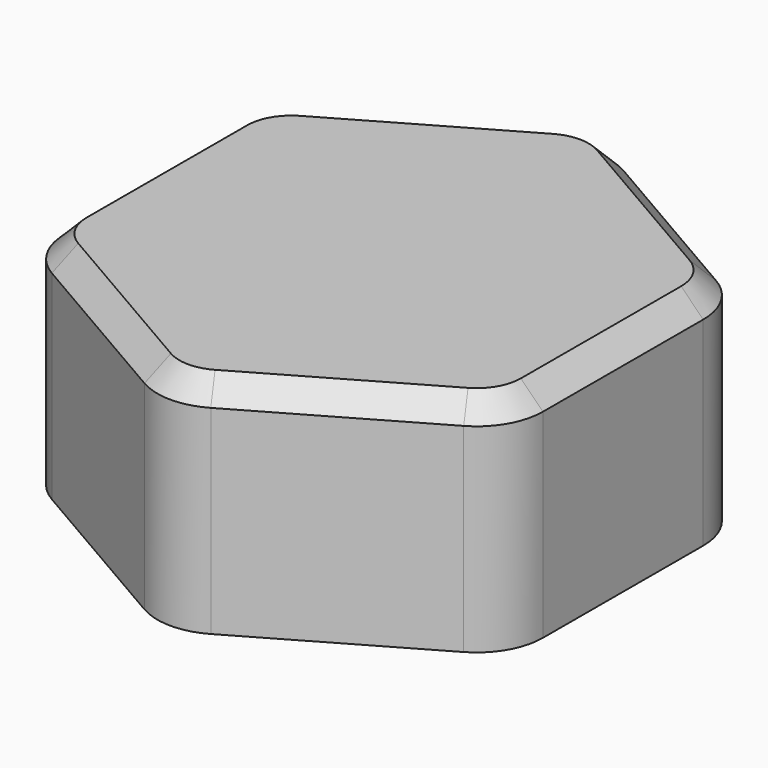
from build123d import *

# Parameters (mm, degrees)
PAD001_DEPTH    = 10
FILLET001_R     = 3
CHAMFER001_SIZE = 1
POCKET_DEPTH    = 8
FILLET002_R     = 2
CHAMFER002_SIZE = 1


with BuildPart() as part:
    # Sketch001 → Pad001 (new body)
    with BuildSketch(Plane.XY):
        Polygon((0.024307, 12.5), (-10.813164, 6.27105), (-10.837471, -6.22895), (-0.024307, -12.5), (10.813164, -6.27105), (10.837471, 6.22895), align=None)
    extrude(amount=PAD001_DEPTH)

    # Fillet001
    fillet001_edges = [part.edges().sort_by_distance(p)[0] for p in [
        (-10.837471, -6.22895, 5),
        (-10.813164, 6.27105, 5),
        (-0.024307, -12.5, 5),
        (10.813164, -6.27105, 5),
        (0.024307, 12.5, 5),
        (10.837471, 6.22895, 5),
    ]]
    fillet(fillet001_edges, radius=FILLET001_R)

    # Chamfer001
    chamfer001_edges = [part.edges().sort_by_distance(p)[0] for p in [
        (-5.394429, 9.385525, 10),
        (0.023405, 12.035899, 10),
        (-10.411692, 6.038219, 10),
        (5.430889, 9.364475, 10),
        (-10.825318, 0.02105, 10),
        (10.435097, 5.997681, 10),
        (-10.435097, -5.997681, 10),
        (10.825318, -0.02105, 10),
        (-5.430889, -9.364475, 10),
        (10.411692, -6.038219, 10),
        (-0.023405, -12.035899, 10),
        (5.394429, -9.385525, 10),
    ]]
    chamfer(chamfer001_edges, length=CHAMFER001_SIZE)

    # Sketch002 (on Face4 of Chamfer001) → Pocket (cut)
    with BuildSketch(Plane(origin=(0, 0, 0), x_dir=(1, 0, 0), z_dir=(0, 0, -1))):
        Polygon((0, 11), (-9.526279, 5.5), (-9.526279, -5.5), (0, -11), (9.526279, -5.5), (9.526279, 5.5), align=None)
    extrude(amount=-POCKET_DEPTH, mode=Mode.SUBTRACT)

    # Fillet002
    fillet002_edges = [part.edges().sort_by_distance(p)[0] for p in [
        (0, -11, 4),
        (9.526279, -5.5, 4),
        (9.526279, 5.5, 4),
        (0, 11, 4),
        (-9.526279, 5.5, 4),
        (-9.526279, -5.5, 4),
    ]]
    fillet(fillet002_edges, radius=FILLET002_R)

    # Chamfer002
    chamfer002_edges = [part.edges().sort_by_distance(p)[0] for p in [
        (-4.76314, -8.25, 8),
        (0, -10.690599, 8),
        (-9.25833, -5.345299, 8),
        (4.76314, -8.25, 8),
        (-9.526279, 0, 8),
        (9.25833, -5.345299, 8),
        (-9.25833, 5.345299, 8),
        (9.526279, 0, 8),
        (-4.76314, 8.25, 8),
        (9.25833, 5.345299, 8),
        (0, 10.690599, 8),
        (4.76314, 8.25, 8),
    ]]
    chamfer(chamfer002_edges, length=CHAMFER002_SIZE)


with BuildPart() as part_1:
    # Body001 placement: moved
    add(part.part.moved(Location((0, 0, -4))))


solid = part_1.part
